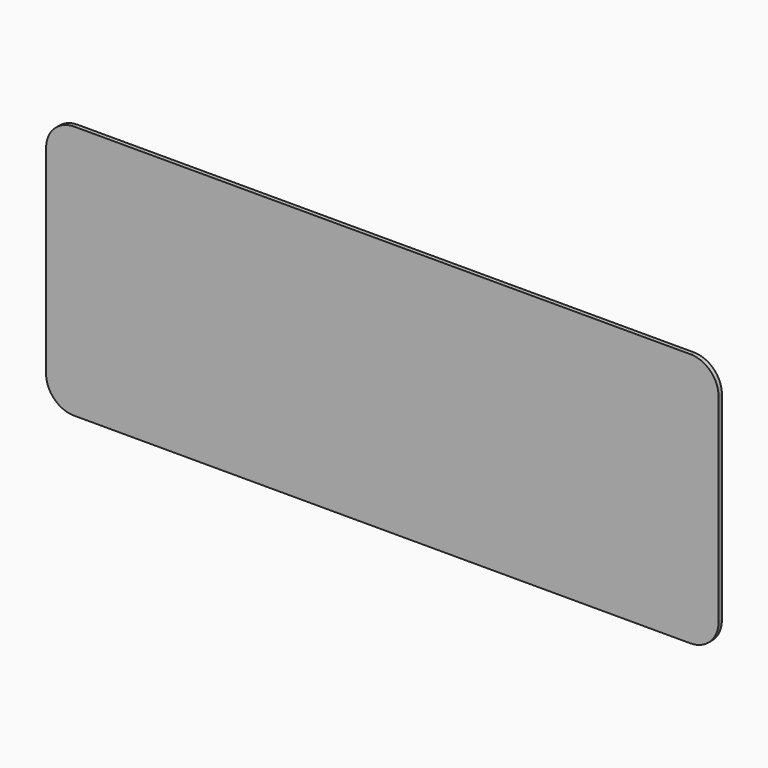
from build123d import *

# Parameters (mm, degrees)
F1_DEPTH = 1.016
F2_R     = 3.175
F2_R_2   = 3.316268
F3_DEPTH = 0.762


with BuildPart() as f1:
    # F0 (on Front) → F1 (new body)
    with BuildSketch(Plane.XZ):
        with BuildLine():
            ThreePointArc((81.25, 23.99), (79.270042, 28.770042), (74.49, 30.75))
            Line((74.49, 30.75), (-74.49, 30.75))
            ThreePointArc((-74.49, 30.75), (-79.270042, 28.770042), (-81.25, 23.99))
            Line((-81.25, 23.99), (-81.25, -23.99))
            ThreePointArc((-81.25, -23.99), (-79.270042, -28.770042), (-74.49, -30.75))
            Line((-74.49, -30.75), (74.49, -30.75))
            ThreePointArc((74.49, -30.75), (79.270042, -28.770042), (81.25, -23.99))
            Line((81.25, -23.99), (81.25, 23.99))
        make_face()
    extrude(amount=F1_DEPTH)

    # F2 (on face) → F3 (cut)
    with BuildSketch(Plane.XZ):
        with Locations((-74.9, 24.4)):
            Circle(F2_R)
        with BuildLine():
            ThreePointArc((-71.888266, 18.061537), (-68.577767, 14.733776), (-65.25575, 18.050038))
            ThreePointArc((-65.25575, 18.050038), (-66.227063, 20.394994), (-68.572018, 21.366306))
            Line((-68.572018, 21.366306), (-68.572018, 18.050038))
            Line((-68.572018, 18.050038), (-71.888266, 18.061537))
        make_face()
        with BuildLine():
            Line((-68.572018, 18.050038), (-68.572018, 21.366306))
            ThreePointArc((-68.572018, 21.366306), (-70.912904, 20.399055), (-71.888266, 18.061537))
            Line((-71.888266, 18.061537), (-68.572018, 18.050038))
        make_face()
        with Locations((-68.572018, 5.350038)):
            Circle(F2_R_2)
        with Locations((-74.9, 11.7)):
            Circle(F2_R)
        with Locations((-55.872018, 18.050038)):
            Circle(F2_R_2)
        with Locations((-62.2, 24.4)):
            Circle(F2_R)
        with Locations((-55.872018, 5.350038)):
            Circle(F2_R_2)
        with Locations((-62.2, 11.7)):
            Circle(F2_R)
        with Locations((-43.172018, 18.050038)):
            Circle(F2_R_2)
        with Locations((-49.5, 24.4)):
            Circle(F2_R)
        with Locations((-43.172018, 5.350038)):
            Circle(F2_R_2)
        with Locations((-49.5, 11.7)):
            Circle(F2_R)
        with Locations((-68.572018, -7.349962)):
            Circle(F2_R_2)
        with Locations((-74.9, -1)):
            Circle(F2_R)
        with Locations((-55.872018, -7.349962)):
            Circle(F2_R_2)
        with Locations((-62.2, -1)):
            Circle(F2_R)
        with Locations((-43.172018, -7.349962)):
            Circle(F2_R_2)
        with Locations((-49.5, -1)):
            Circle(F2_R)
        with Locations((-68.572018, -20.049962)):
            Circle(F2_R_2)
        with Locations((-74.9, -13.7)):
            Circle(F2_R)
        with Locations((-55.872018, -20.049962)):
            Circle(F2_R_2)
        with Locations((-62.2, -13.7)):
            Circle(F2_R)
        with Locations((-43.172018, -20.049962)):
            Circle(F2_R_2)
        with Locations((-49.5, -13.7)):
            Circle(F2_R)
        with Locations((-30.472018, 18.050038)):
            Circle(F2_R_2)
        with Locations((-36.8, 24.4)):
            Circle(F2_R)
        with Locations((-30.472018, 5.350038)):
            Circle(F2_R_2)
        with Locations((-36.8, 11.7)):
            Circle(F2_R)
        with Locations((-30.472018, -7.349962)):
            Circle(F2_R_2)
        with Locations((-36.8, -1)):
            Circle(F2_R)
        with Locations((-30.472018, -20.049962)):
            Circle(F2_R_2)
        with Locations((-36.8, -13.7)):
            Circle(F2_R)
        with Locations((-17.772018, 18.050038)):
            Circle(F2_R_2)
        with Locations((-24.1, 24.4)):
            Circle(F2_R)
        with Locations((-17.772018, 5.350038)):
            Circle(F2_R_2)
        with Locations((-24.1, 11.7)):
            Circle(F2_R)
        with Locations((-17.772018, -7.349962)):
            Circle(F2_R_2)
        with Locations((-24.1, -1)):
            Circle(F2_R)
        with Locations((-17.772018, -20.049962)):
            Circle(F2_R_2)
        with Locations((-24.1, -13.7)):
            Circle(F2_R)
        with Locations((-5.072018, 18.050038)):
            Circle(F2_R_2)
        with Locations((-11.4, 24.4)):
            Circle(F2_R)
        with Locations((-5.072018, 5.350038)):
            Circle(F2_R_2)
        with Locations((-11.4, 11.7)):
            Circle(F2_R)
        with Locations((-5.072018, -7.349962)):
            Circle(F2_R_2)
        with Locations((-11.4, -1)):
            Circle(F2_R)
        with Locations((-5.072018, -20.049962)):
            Circle(F2_R_2)
        with Locations((-11.4, -13.7)):
            Circle(F2_R)
        with Locations((7.627982, 18.050038)):
            Circle(F2_R_2)
        with Locations((1.3, 24.4)):
            Circle(F2_R)
        with Locations((7.627982, 5.350038)):
            Circle(F2_R_2)
        with Locations((1.3, 11.7)):
            Circle(F2_R)
        with Locations((7.627982, -7.349962)):
            Circle(F2_R_2)
        with Locations((1.3, -1)):
            Circle(F2_R)
        with Locations((7.627982, -20.049962)):
            Circle(F2_R_2)
        with Locations((1.3, -13.7)):
            Circle(F2_R)
        with Locations((20.327982, 18.050038)):
            Circle(F2_R_2)
        with Locations((14, 24.4)):
            Circle(F2_R)
        with Locations((20.327982, 5.350038)):
            Circle(F2_R_2)
        with Locations((14, 11.7)):
            Circle(F2_R)
        with Locations((20.327982, -7.349962)):
            Circle(F2_R_2)
        with Locations((14, -1)):
            Circle(F2_R)
        with Locations((20.327982, -20.049962)):
            Circle(F2_R_2)
        with Locations((14, -13.7)):
            Circle(F2_R)
        with Locations((33.027982, 18.050038)):
            Circle(F2_R_2)
        with Locations((26.7, 24.4)):
            Circle(F2_R)
        with Locations((33.027982, 5.350038)):
            Circle(F2_R_2)
        with Locations((26.7, 11.7)):
            Circle(F2_R)
        with Locations((33.027982, -7.349962)):
            Circle(F2_R_2)
        with Locations((26.7, -1)):
            Circle(F2_R)
        with Locations((33.027982, -20.049962)):
            Circle(F2_R_2)
        with Locations((26.7, -13.7)):
            Circle(F2_R)
        with Locations((45.727982, 18.050038)):
            Circle(F2_R_2)
        with Locations((39.4, 24.4)):
            Circle(F2_R)
        with Locations((45.727982, 5.350038)):
            Circle(F2_R_2)
        with Locations((39.4, 11.7)):
            Circle(F2_R)
        with Locations((45.727982, -7.349962)):
            Circle(F2_R_2)
        with Locations((39.4, -1)):
            Circle(F2_R)
        with Locations((45.727982, -20.049962)):
            Circle(F2_R_2)
        with Locations((39.4, -13.7)):
            Circle(F2_R)
        with Locations((58.427982, 18.050038)):
            Circle(F2_R_2)
        with Locations((52.1, 24.4)):
            Circle(F2_R)
        with Locations((58.427982, 5.350038)):
            Circle(F2_R_2)
        with Locations((52.1, 11.7)):
            Circle(F2_R)
        with Locations((58.427982, -7.349962)):
            Circle(F2_R_2)
        with Locations((52.1, -1)):
            Circle(F2_R)
        with Locations((58.427982, -20.049962)):
            Circle(F2_R_2)
        with Locations((52.1, -13.7)):
            Circle(F2_R)
        with Locations((71.127982, 18.050038)):
            Circle(F2_R_2)
        with Locations((64.8, 24.4)):
            Circle(F2_R)
        with Locations((71.127982, 5.350038)):
            Circle(F2_R_2)
        with Locations((64.8, 11.7)):
            Circle(F2_R)
        with Locations((71.127982, -7.349962)):
            Circle(F2_R_2)
        with Locations((64.8, -1)):
            Circle(F2_R)
        with Locations((71.127982, -20.049962)):
            Circle(F2_R_2)
        with Locations((64.8, -13.7)):
            Circle(F2_R)
    extrude(amount=F3_DEPTH, mode=Mode.SUBTRACT)


solid = f1.part
